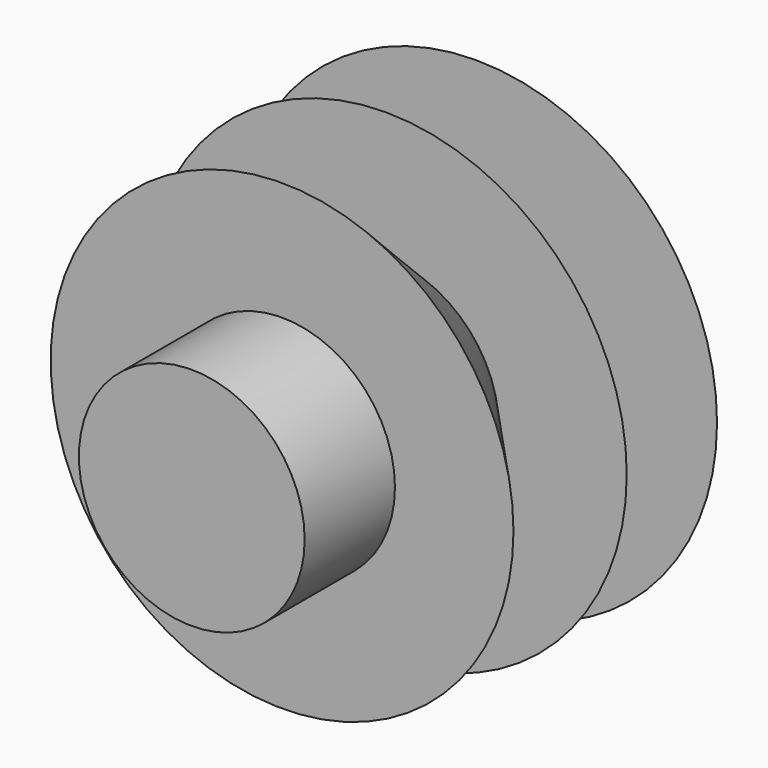
from build123d import *


with BuildPart() as f1:
    # F0 (on Top) → F1 (revolve)
    with BuildSketch(Plane.XY):
        Polygon((39.014403, 22.7076), (0, 46.177197), (0, -34.8996), (18.288001, -34.8996), (18.288001, -16.6116), (37.490401, -16.6116), (18.288001, 4.4196), (39.014403, 4.4196), (18.288001, 22.7076), align=None)
    revolve(axis=Axis((0, 2.743199, 0), (0, -1, 0)))


solid = f1.part
